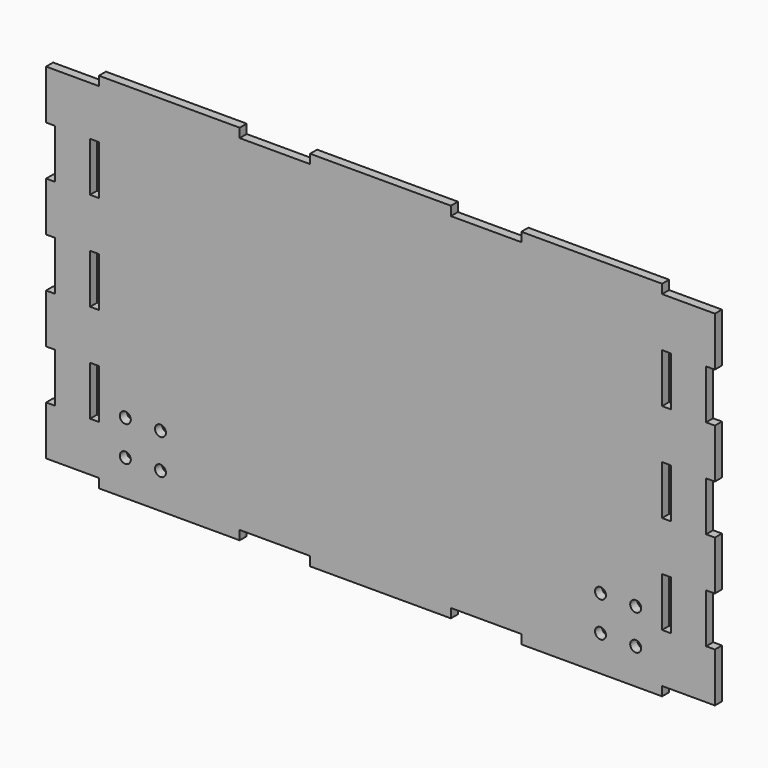
from build123d import *

# Parameters (mm, degrees)
F0_R     = 1.984375
F0_W     = 3.175
F0_H     = 17.78
F1_DEPTH = 3.175


with BuildPart() as f1:
    # F0 (on Front) → F1 (new body)
    with BuildSketch(Plane.XZ):
        Polygon((-101.6, -65.532), (-50.8, -65.532), (-50.8, -62.23), (-25.4, -62.23), (-25.4, -65.532), (25.4, -65.532), (25.4, -62.23), (50.8, -62.23), (50.8, -65.532), (101.6, -65.532), (101.6, -62.23), (120.65, -62.23), (120.65, -44.45), (117.475, -44.45), (117.475, -26.67), (120.65, -26.67), (120.65, -8.89), (117.475, -8.89), (117.475, 8.89), (120.65, 8.89), (120.65, 26.67), (117.475, 26.67), (117.475, 44.45), (120.65, 44.45), (120.65, 62.23), (101.6, 62.23), (101.6, 65.532), (50.8, 65.532), (50.8, 62.23), (25.4, 62.23), (25.4, 65.532), (-25.4, 65.532), (-25.4, 62.23), (-50.8, 62.23), (-50.8, 65.532), (-101.6, 65.532), (-101.6, 62.23), (-120.65, 62.23), (-120.65, 44.45), (-117.475, 44.45), (-117.475, 26.67), (-120.65, 26.67), (-120.65, 8.89), (-117.475, 8.89), (-117.475, -8.89), (-120.65, -8.89), (-120.65, -26.67), (-117.475, -26.67), (-117.475, -44.45), (-120.65, -44.45), (-120.65, -62.23), (-101.6, -62.23), align=None)
        with Locations((-92.075, -52.705)):
            Circle(F0_R, mode=Mode.SUBTRACT)
        with Locations((-79.375, -52.705)):
            Circle(F0_R, mode=Mode.SUBTRACT)
        with Locations((-92.075, -40.005)):
            Circle(F0_R, mode=Mode.SUBTRACT)
        with Locations((-103.1875, -35.56)):
            Rectangle(F0_W, F0_H, mode=Mode.SUBTRACT)
        with Locations((-79.375, -40.005)):
            Circle(F0_R, mode=Mode.SUBTRACT)
        with Locations((79.375, -52.705)):
            Circle(F0_R, mode=Mode.SUBTRACT)
        with Locations((92.075, -52.705)):
            Circle(F0_R, mode=Mode.SUBTRACT)
        with Locations((79.375, -40.005)):
            Circle(F0_R, mode=Mode.SUBTRACT)
        with Locations((92.075, -40.005)):
            Circle(F0_R, mode=Mode.SUBTRACT)
        with Locations((103.1875, -35.56)):
            Rectangle(F0_W, F0_H, mode=Mode.SUBTRACT)
        with Locations((-103.1875, 0)):
            Rectangle(F0_W, F0_H, mode=Mode.SUBTRACT)
        with Locations((-103.1875, 35.56)):
            Rectangle(F0_W, F0_H, mode=Mode.SUBTRACT)
        with Locations((103.1875, 0)):
            Rectangle(F0_W, F0_H, mode=Mode.SUBTRACT)
        with Locations((103.1875, 35.56)):
            Rectangle(F0_W, F0_H, mode=Mode.SUBTRACT)
    extrude(amount=F1_DEPTH)


solid = f1.part
